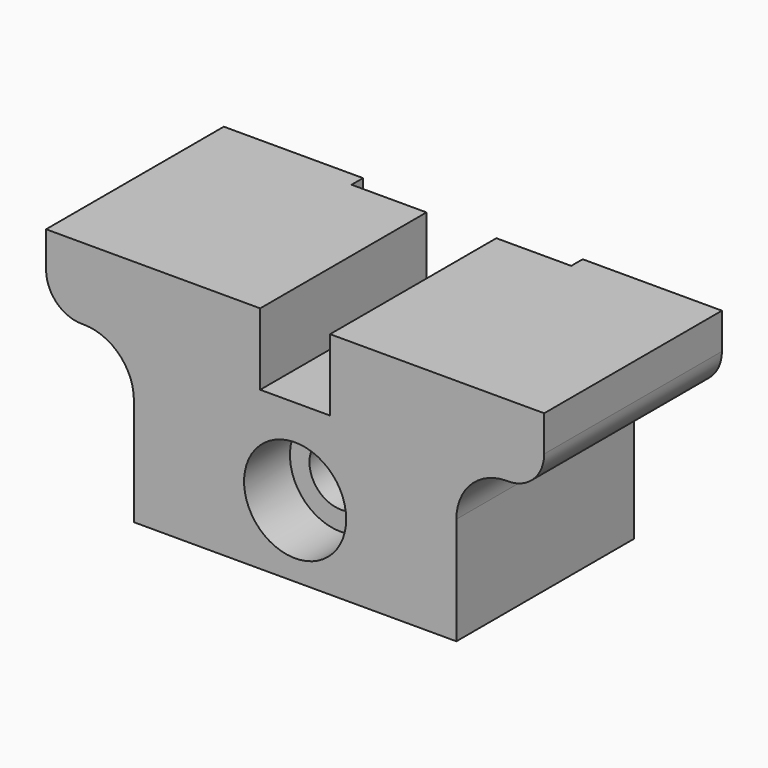
from build123d import *

# Parameters (mm, degrees)
F1_DEPTH       = 31
F3_DEPTH       = 2
F5_D           = 6.8
F5_DEPTH       = 20
F5_TIP         = 2.0429261047
F7_D           = 8.8
F7_CBORE_D     = 14.25
F7_CBORE_DEPTH = 8


with BuildPart() as f1:
    # F0 (on Front) → F1 (new body)
    with BuildSketch(Plane.XZ):
        with BuildLine():
            Line((-4.875, 32), (-34.75, 32))
            Line((-34.75, 32), (-34.75, 27))
            ThreePointArc((-34.75, 27), (-33.2855339059, 23.4644660941), (-29.75, 22))
            Line((-29.75, 22), (-29.5, 22))
            ThreePointArc((-29.5, 22), (-24.5502525317, 19.9497474683), (-22.5, 15))
            Line((-22.5, 15), (-22.5, 0))
            Line((-22.5, 0), (22.5, 0))
            Line((22.5, 0), (22.5, 15))
            ThreePointArc((22.5, 15), (24.5502525317, 19.9497474683), (29.5, 22))
            Line((29.5, 22), (29.75, 22))
            ThreePointArc((29.75, 22), (33.2855339059, 23.4644660941), (34.75, 27))
            Line((34.75, 27), (34.75, 32))
            Line((34.75, 32), (4.875, 32))
            Line((4.875, 32), (4.875, 22))
            Line((4.875, 22), (-4.875, 22))
            Line((-4.875, 22), (-4.875, 32))
        make_face()
    extrude(amount=F1_DEPTH)

    # F2 (on face) → F3 (cut)
    with BuildSketch(Plane(origin=(0, 0, 0), x_dir=(-1, 0, 0), z_dir=(0, 1, 0))):
        Polygon((15.325, 0), (15.325, 32), (4.875, 32), (4.875, 22), (-4.875, 22), (-4.875, 32), (-15.325, 32), (-15.325, 0), align=None)
    extrude(amount=-F3_DEPTH, mode=Mode.SUBTRACT)

    # F5
    with Locations(Plane(origin=(0, 0, 0), x_dir=(1, 0, 0), z_dir=(0, 0, -1))):
        with Locations((-16, 15.5), (16, 15.5)):
            Hole(F5_D / 2, depth=F5_DEPTH)
            with Locations((0, 0, -(F5_DEPTH + F5_TIP / 2))):  # 118° drill point
                Cone(0, F5_D / 2, F5_TIP, mode=Mode.SUBTRACT)

    # F7 (through all)
    with Locations(Plane.XZ.offset(31)):
        with Locations((0, 10)):
            CounterBoreHole(F7_D / 2, F7_CBORE_D / 2, F7_CBORE_DEPTH)


solid = f1.part
